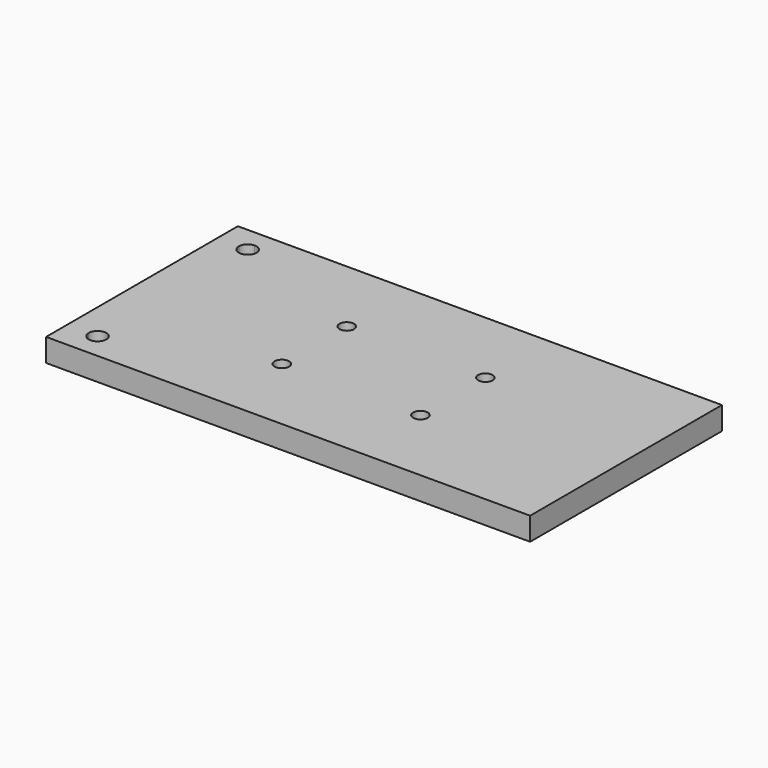
from build123d import *

# Parameters (mm, degrees)
F1_DEPTH = 3


with BuildPart() as f1:
    # F0 (on Top) → F1 (new body)
    with BuildSketch(Plane.XY):
        with BuildLine():
            Line((25.268273, -0.112945), (-33.931727, -0.112945))
            Line((-33.931727, -0.112945), (-33.931727, -2.362945))
            ThreePointArc((-33.931727, -2.362945), (-33.118554, -2.699773), (-32.781727, -3.512945))
            ThreePointArc((-32.781727, -3.512945), (-33.931727, -4.662945), (-35.081727, -3.512945))
            Line((-35.081727, -3.512945), (-37.931727, -3.512945))
            Line((-37.931727, -3.512945), (-37.931727, -10.462945))
            Line((-37.931727, -10.462945), (-16.381727, -10.462945))
            ThreePointArc((-16.381727, -10.462945), (-15.431727, -9.512945), (-14.481727, -10.462945))
            Line((-14.481727, -10.462945), (-5.3, -10.462945))
            Line((-5.3, -10.462945), (-5.3, -15.762945))
            Line((-5.3, -15.762945), (25.268273, -15.762945))
            Line((25.268273, -15.762945), (25.268273, -0.112945))
        make_face()
        with BuildLine():
            ThreePointArc((3.618273, -10.462945), (2.668273, -11.412945), (1.718273, -10.462945))
            ThreePointArc((1.718273, -10.462945), (2.668273, -9.512945), (3.618273, -10.462945))
        make_face(mode=Mode.SUBTRACT)
        with BuildLine():
            Line((-33.931727, -0.112945), (-37.931727, -0.112945))
            Line((-37.931727, -0.112945), (-37.931727, -3.512945))
            Line((-37.931727, -3.512945), (-35.081727, -3.512945))
            ThreePointArc((-35.081727, -3.512945), (-34.7449, -2.699773), (-33.931727, -2.362945))
            Line((-33.931727, -2.362945), (-33.931727, -0.112945))
        make_face()
        with BuildLine():
            Line((-16.381727, -10.462945), (-37.931727, -10.462945))
            Line((-37.931727, -10.462945), (-37.931727, -15.762945))
            Line((-37.931727, -15.762945), (-5.3, -15.762945))
            Line((-5.3, -15.762945), (-5.3, -10.462945))
            Line((-5.3, -10.462945), (-14.481727, -10.462945))
            ThreePointArc((-14.481727, -10.462945), (-15.431727, -11.412945), (-16.381727, -10.462945))
        make_face()
    extrude(amount=F1_DEPTH)

    # F2: F1 across face


with BuildPart() as f1_1:
    add(f1.part)
    add(f1.part.mirror(Plane(origin=(-6.331727, -15.762945, 1.5), x_dir=(1, 0, 0), z_dir=(0, -1, 0))))


solid = f1_1.part
